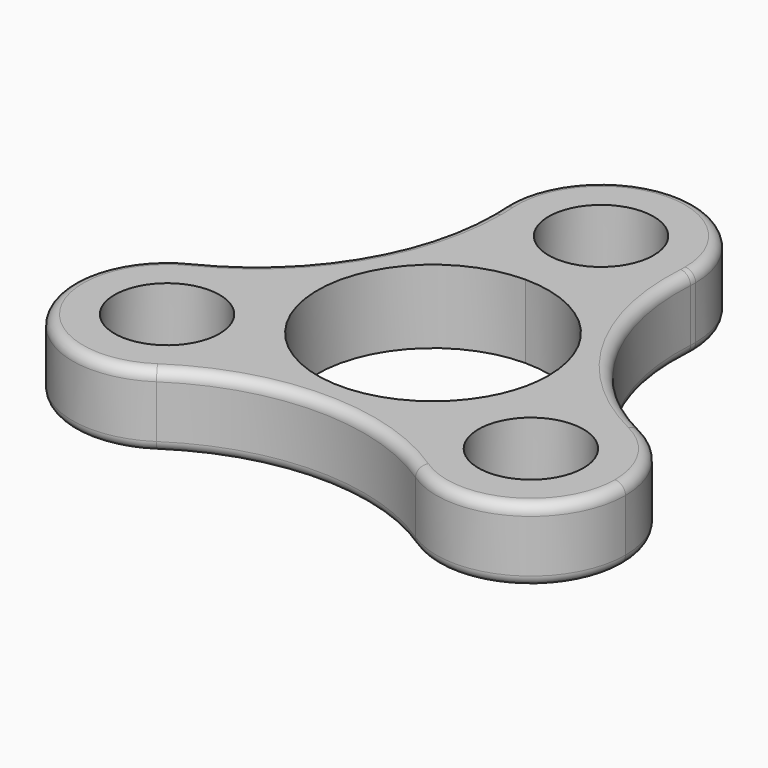
from build123d import *

# Parameters (mm, degrees)
F0_R     = 5
F1_DEPTH = 7
F2_R     = 1


with BuildPart() as f1:
    # F0 (on Top) → F1 (new body)
    with BuildSketch(Plane.XY):
        with BuildLine():
            ThreePointArc((21.3123029217, -1.9336765557), (14.7139218512, -1.3857264813), (9.5262793734, -5.5000001181))
            ThreePointArc((9.5262793734, -5.5000001181), (8.5570353366, -12.0497671944), (12.3307648053, -17.4901576816))
            ThreePointArc((12.3307648053, -17.4901576816), (21.5685847326, -17.9343458909), (26.3205080757, -10))
            ThreePointArc((26.3205080757, -10), (24.9666232205, -5.2526930589), (21.3123029217, -1.9336765557))
        make_face()
        with Locations((17.3205080757, -10)):
            Circle(F0_R, mode=Mode.SUBTRACT)
        with BuildLine():
            ThreePointArc((-8.3205080757, -10), (-8.6271756178, -7.6706286735), (-9.5262793594, -5.5000001424))
            ThreePointArc((-9.5262793594, -5.5000001424), (-14.7139219474, -1.3857264522), (-21.312303127, -1.9336766573))
            ThreePointArc((-21.312303127, -1.9336766573), (-25.1147367037, -14.5000000105), (-12.3307646513, -17.490157579))
            ThreePointArc((-12.3307646513, -17.490157579), (-9.3861621411, -14.2480765754), (-8.3205080757, -10))
        make_face()
        with Locations((-17.3205080757, -10)):
            Circle(F0_R, mode=Mode.SUBTRACT)
        with BuildLine():
            ThreePointArc((-9.5262793594, -5.5000001424), (-9.5262794827, 5.4999999288), (0, 11))
            ThreePointArc((0, 11), (-6.1568865898, 13.4354933529), (-8.9815384321, 19.4238338845))
            ThreePointArc((-8.9815384321, 19.4238338845), (-8.9473244085, 18.7122823092), (-8.9359158326, 18))
            ThreePointArc((-8.9359158326, 18), (-12.2816660211, 6.2683502062), (-21.312303127, -1.9336766573))
            ThreePointArc((-21.312303127, -1.9336766573), (-14.7139219474, -1.3857264522), (-9.5262793594, -5.5000001424))
        make_face()
        with BuildLine():
            ThreePointArc((12.3307648053, -17.4901576816), (8.5570353366, -12.0497671944), (9.5262793734, -5.5000001181))
            ThreePointArc((9.5262793734, -5.5000001181), (1.4e-08, -11), (-9.5262793594, -5.5000001424))
            ThreePointArc((-9.5262793594, -5.5000001424), (-8.6271756178, -7.6706286735), (-8.3205080757, -10))
            ThreePointArc((-8.3205080757, -10), (-9.3861621411, -14.2480765754), (-12.3307646513, -17.490157579))
            ThreePointArc((-12.3307646513, -17.490157579), (9.25e-08, -13.7590012964), (12.3307648053, -17.4901576816))
        make_face()
        with BuildLine():
            ThreePointArc((0, 11), (7.7781745931, 7.7781745931), (11, 0))
            ThreePointArc((11, 0), (10.6251840715, -2.847009562), (9.5262793734, -5.5000001181))
            ThreePointArc((9.5262793734, -5.5000001181), (14.7139218512, -1.3857264813), (21.3123029217, -1.9336765557))
            ThreePointArc((21.3123029217, -1.9336765557), (11.9156446994, 6.8795005684), (8.9815384291, 19.4238338374))
            ThreePointArc((8.9815384291, 19.4238338374), (6.1568865726, 13.4354933368), (0, 11))
        make_face()
        with BuildLine():
            ThreePointArc((-8.9815384321, 19.4238338845), (-6.1568865898, 13.4354933529), (0, 11))
            ThreePointArc((0, 11), (6.1568865726, 13.4354933368), (8.9815384291, 19.4238338374))
            ThreePointArc((8.9815384291, 19.4238338374), (8.9953834232, 19.7117690698), (9, 20))
            ThreePointArc((9, 20), (-0.2882309066, 28.995383424), (-8.9815384321, 19.4238338845))
        make_face()
        with Locations((0, 20)):
            Circle(F0_R, mode=Mode.SUBTRACT)
    extrude(amount=F1_DEPTH)

    # F2
    f2_edges = [f1.edges().sort_by_distance(p)[0] for p in [
        (-25.114737, -14.5, 7),
        (0, -13.759001, 7),
        (25.114737, -14.5, 7),
        (11.915645, 6.879501, 7),
        (-11.915645, 6.8795, 7),
        (0, 29, 7),
        (25.114737, -14.5, 0),
        (0, -13.759001, 0),
        (-25.114737, -14.5, 0),
        (-11.915645, 6.8795, 0),
        (0, 29, 0),
        (11.915645, 6.879501, 0),
    ]]
    fillet(f2_edges, radius=F2_R)


solid = f1.part
